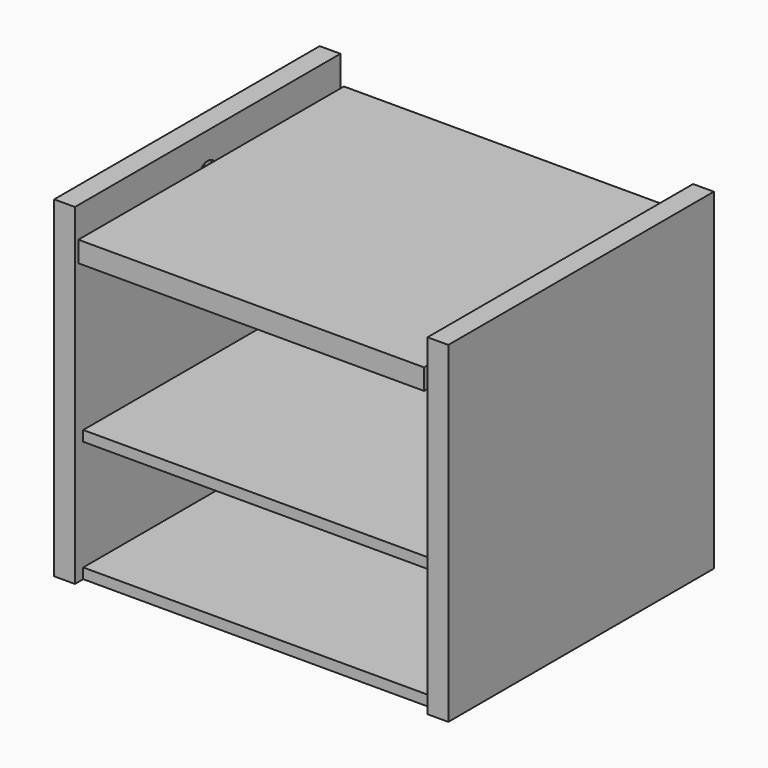
from build123d import *

# Parameters (mm, degrees)
F0_W      = 38.1
F0_H      = 609.6
F1_DEPTH  = 609.6
F4_W      = 685.8
F4_H      = 19.05
F5_DEPTH  = 571.5
F7_W      = 685.8
F7_H      = 19.05
F8_DEPTH  = 571.5
F10_R     = 20.6375
F11_DEPTH = 7.9375
F12_R     = 20.6375
F13_DEPTH = 7.9375
F14_R     = 9.525
F15_DEPTH = 663.575
F16_W     = 635
F16_H     = 38.1
F17_DEPTH = 609.6
F19_R     = 5.55625
F20_DEPTH = 12.7
F21_R     = 5.55625
F22_DEPTH = 12.7


with BuildPart() as f1:
    # F0 (on Front) → F1 (new body)
    with BuildSketch(Plane.XZ):
        with Locations((19.05, 304.8)):
            Rectangle(F0_W, F0_H)
    extrude(amount=F1_DEPTH)


with BuildPart() as f2_1:
    # F2: copy of F1
    add(f1.part.moved(Location((685.8, 0, 0))))


with BuildPart() as f5:
    # F4 (on offset) → F5 (new body)
    with BuildSketch(Plane.XZ.offset(590.55)):
        with Locations((361.95, 9.525)):
            Rectangle(F4_W, F4_H)
    extrude(amount=-F5_DEPTH)


with BuildPart() as f1_1:
    add(f1.part)

    # F6: cut F5
    add(f5.part, mode=Mode.SUBTRACT)


with BuildPart() as f2_1_1:
    add(f2_1.part)

    # F6: cut F5
    add(f5.part, mode=Mode.SUBTRACT)


with BuildPart() as f8:
    # F7 (on offset) → F8 (new body)
    with BuildSketch(Plane.XZ.offset(590.55)):
        with Locations((361.95, 231.775)):
            Rectangle(F7_W, F7_H)
    extrude(amount=-F8_DEPTH)


with BuildPart() as f1_2:
    add(f1_1.part)

    # F9: cut F8
    add(f8.part, mode=Mode.SUBTRACT)

    # F10 (on face) → F11 (cut)
    with BuildSketch(Plane.YZ.offset(38.1)):
        with Locations((-304.8, 539.75)):
            Circle(F10_R)
    extrude(amount=-F11_DEPTH, mode=Mode.SUBTRACT)

    # F19 (on face) → F20 (cut)
    with BuildSketch(Plane.YZ.offset(38.1)):
        with Locations((-558.8, 495.3)):
            Circle(F19_R)
    extrude(amount=-F20_DEPTH, mode=Mode.SUBTRACT)


with BuildPart() as f2_1_2:
    add(f2_1_1.part)

    # F9: cut F8
    add(f8.part, mode=Mode.SUBTRACT)

    # F12 (on face) → F13 (cut)
    with BuildSketch(Plane(origin=(685.8, 0, 0), x_dir=(0, -1, 0), z_dir=(-1, 0, 0))):
        with Locations((304.8, 539.75)):
            Circle(F12_R)
    extrude(amount=-F13_DEPTH, mode=Mode.SUBTRACT)

    # F21 (on face) → F22 (cut)
    with BuildSketch(Plane(origin=(685.8, 0, 0), x_dir=(0, -1, 0), z_dir=(-1, 0, 0))):
        with Locations((558.8, 495.3)):
            Circle(F21_R)
    extrude(amount=-F22_DEPTH, mode=Mode.SUBTRACT)


with BuildPart() as f15:
    # F14 (on face) → F15 (new body, through all)
    with BuildSketch(Plane.YZ.offset(30.1625)):
        with Locations((-304.8, 539.75)):
            Circle(F14_R)
    extrude(amount=F15_DEPTH)


with BuildPart() as f17:
    # F16 (on face) → F17 (new body)
    with BuildSketch(Plane.XZ.offset(609.6)):
        with Locations((361.95, 539.75)):
            Rectangle(F16_W, F16_H)
    extrude(amount=-F17_DEPTH)

    # F18: cut F15
    add(f15.part, mode=Mode.SUBTRACT)


solid = Compound([f5.part, f8.part, f1_2.part, f2_1_2.part, f15.part, f17.part])
